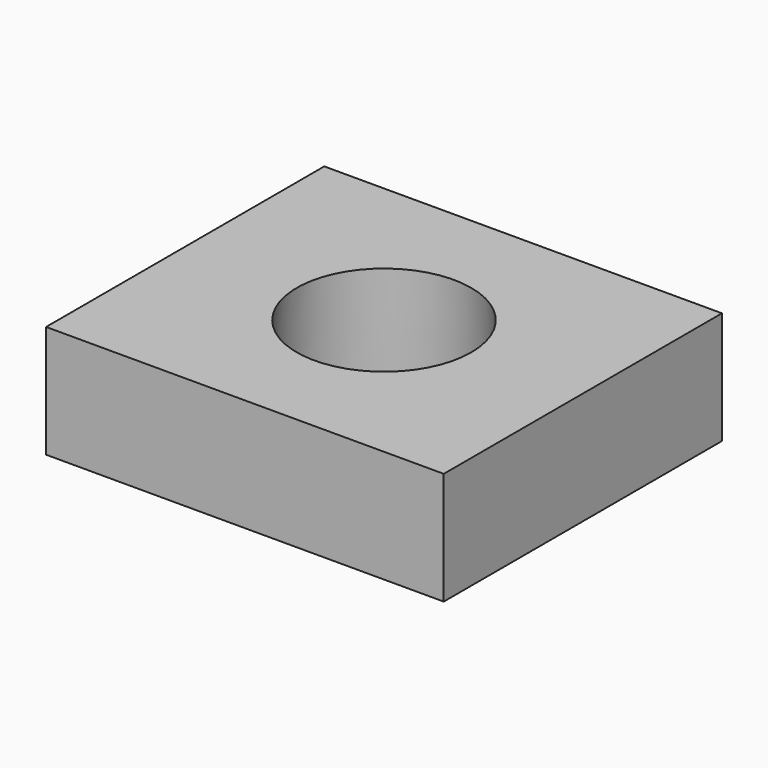
from build123d import *

# Parameters (mm, degrees)
F0_W          = 89.7879451513
F0_H          = 78.5107910633
F1_DEPTH      = 12.7
F2_R          = 19.7135736906
F3_DEPTH      = 25.4
F3_TAPER      = -3
F3_DEPTH_BACK = 25.4


with BuildPart() as f1:
    # F0 (on Top) → F1 (new body, symmetric)
    with BuildSketch(Plane.XY):
        Rectangle(F0_W, F0_H)
    extrude(amount=F1_DEPTH, both=True)

    # F2 (on face) → F3 (cut, two sides)
    with BuildSketch(Plane.XY.offset(12.7)) as f3_sk:
        Circle(F2_R)
    extrude(amount=-F3_DEPTH, taper=F3_TAPER, mode=Mode.SUBTRACT)
    extrude(f3_sk.sketch, amount=F3_DEPTH_BACK, mode=Mode.SUBTRACT)


solid = f1.part
